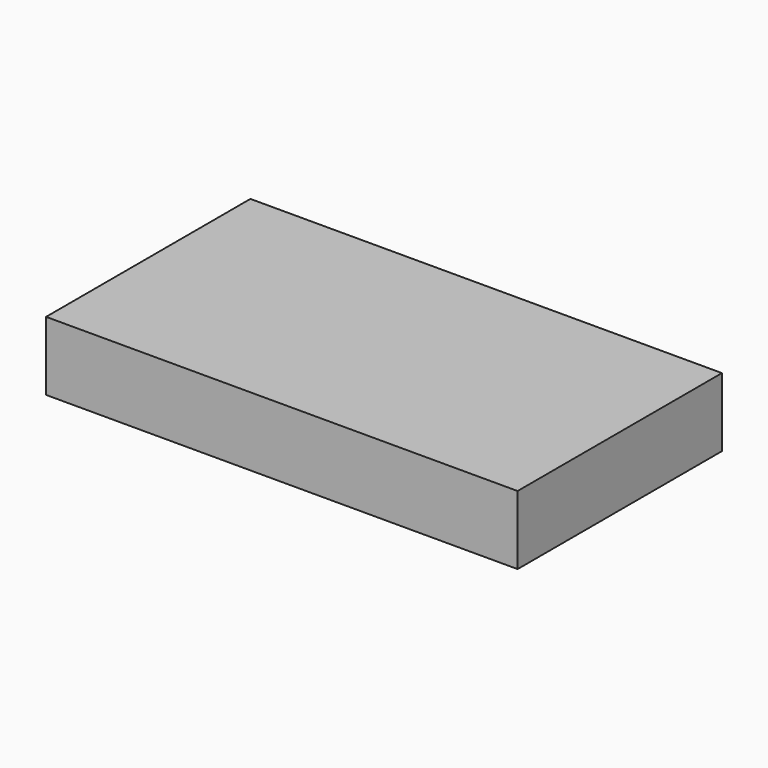
from build123d import *

# Parameters (mm, degrees)
BOX_W     = 48
BOX_H     = 26
BOX_DEPTH = 7


with BuildPart() as part:
    # Box → Box (new body)
    with BuildSketch(Plane.XY):
        with Locations((24, 13)):
            Rectangle(BOX_W, BOX_H)
    extrude(amount=BOX_DEPTH)


solid = part.part
